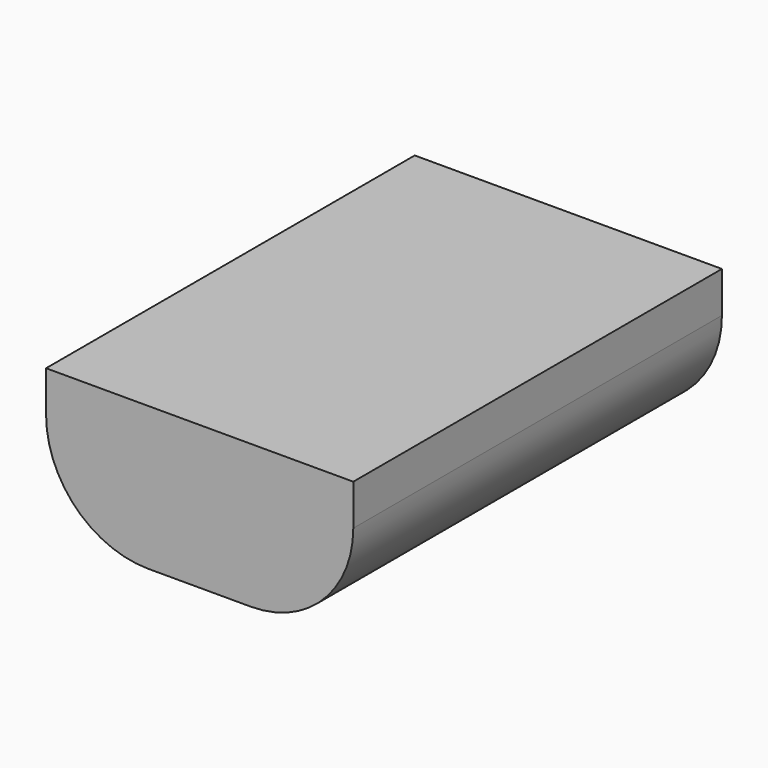
from build123d import *

# Parameters (mm, degrees)
SKETCH015_W     = 60
SKETCH015_H     = 90
PAD007_DEPTH    = 28
FILLET_R        = 20
POCKET008_DEPTH = 87


with BuildPart() as part:
    # Sketch015 (on XY_Plane007 of Origin014) → Pad007 (new body)
    with BuildSketch(Plane.XY):
        with Locations((30, 45)):
            Rectangle(SKETCH015_W, SKETCH015_H)
    extrude(amount=PAD007_DEPTH)

    # Fillet
    fillet_edges = [part.edges().sort_by_distance(p)[0] for p in [
        (0, 45, 0),
        (60, 45, 0),
    ]]
    fillet(fillet_edges, radius=FILLET_R)

    # Sketch017 (on Face8 of Fillet) → Pocket008 (cut)
    with BuildSketch(Plane(origin=(0, 90, 0), x_dir=(-1, 0, 0), z_dir=(0, 1, 0))):
        with BuildLine():
            Line((-58.998235, 25.217793), (-1.00896, 25.217793))
            Line((-1.00896, 25.217793), (-1.00896, 19.810799))
            ThreePointArc((-20, 1.008018), (-6.637701, 6.503914), (-1.00896, 19.810799))
            Line((-20, 1.008018), (-39.561207, 1.008018))
            Line((-39.7511, 1.00322), (-39.561207, 1.008018))
            ThreePointArc((-58.998235, 19.918358), (-53.316531, 6.449738), (-39.7511, 1.00322))
            Line((-58.998235, 25.217793), (-58.998235, 19.918358))
        make_face()
    extrude(amount=-POCKET008_DEPTH, mode=Mode.SUBTRACT)


solid = part.part
